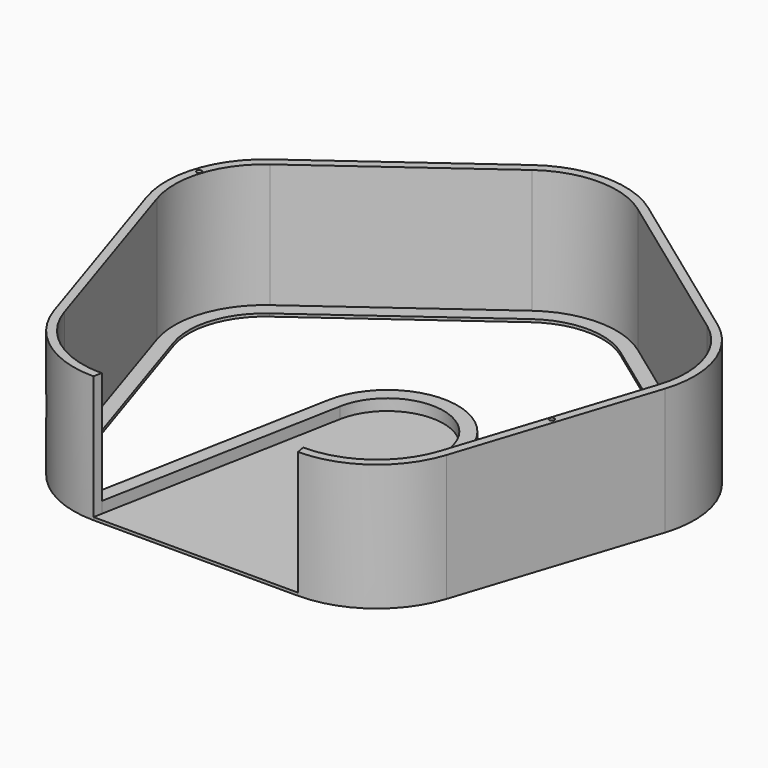
from build123d import *

# Parameters (mm, degrees)
F0_R     = 0.9
F1_DEPTH = 45
F2_DEPTH = 5
F3_DEPTH = 1
F4_R     = 5.995213452
F5_DEPTH = 25


with BuildPart() as f1:
    # F0 (on Top) → F1 (new body)
    with BuildSketch(Plane.XY):
        with BuildLine():
            Line((69.6141044706, -60.8155948031), (92.0655032996, 8.2827057594))
            ThreePointArc((92.0655032996, 8.2827057594), (92.0655032996, 29.9138953656), (79.3510090595, 47.4138953656))
            Line((79.3510090595, 47.4138953656), (20.5724838302, 90.1189936781))
            ThreePointArc((20.5724838302, 90.1189936781), (0, 96.803398875), (-20.5724838302, 90.1189936781))
            Line((-20.5724838302, 90.1189936781), (-79.3510090595, 47.4138953656))
            ThreePointArc((-79.3510090595, 47.4138953656), (-92.0655032996, 29.9138953656), (-92.0655032996, 8.2827057594))
            Line((-92.0655032996, 8.2827057594), (-69.6141044706, -60.8155948031))
            ThreePointArc((-69.6141044706, -60.8155948031), (-56.8996102305, -78.3155948031), (-36.3271264003, -85))
            Line((-36.3271264003, -85), (-35.7632361451, -82))
            Line((-35.7632361451, -82), (-36.3271264003, -82))
            ThreePointArc((-36.3271264003, -82), (-38.5650226814, -81.9216512768), (-40.7919604428, -81.6869887647))
            ThreePointArc((-40.7919604428, -81.6869887647), (-56.9006983727, -74.5097559412), (-66.7609349217, -59.88854382))
            Line((-66.7609349217, -59.88854382), (-89.2123337507, 9.2097567425))
            ThreePointArc((-89.2123337507, 9.2097567425), (-89.2123337507, 28.9868443825), (-77.5876533026, 44.9868443825))
            Line((-77.5876533026, 44.9868443825), (-18.8091280734, 87.691942695))
            ThreePointArc((-18.8091280734, 87.691942695), (0, 93.803398875), (18.8091280734, 87.691942695))
            Line((18.8091280734, 87.691942695), (77.5876533026, 44.9868443825))
            ThreePointArc((77.5876533026, 44.9868443825), (89.2123337507, 28.9868443825), (89.2123337507, 9.2097567425))
            Line((89.2123337507, 9.2097567425), (66.7609349217, -59.88854382))
            ThreePointArc((66.7609349217, -59.88854382), (56.9006983727, -74.5097559412), (40.7919604428, -81.6869887647))
            ThreePointArc((40.7919604428, -81.6869887647), (38.5650226814, -81.9216512768), (36.3271264003, -82))
            Line((36.3271264003, -82), (35.7632361451, -82))
            Line((35.7632361451, -82), (36.3271264003, -85))
            ThreePointArc((36.3271264003, -85), (56.8996102305, -78.3155948031), (69.6141044706, -60.8155948031))
        make_face()
        with Locations((79.0327965041, -25.6793122326)):
            Circle(F0_R, mode=Mode.SUBTRACT)
        with Locations((-90.2584959186, 29.3267630763)):
            Circle(F0_R, mode=Mode.SUBTRACT)
    extrude(amount=F1_DEPTH)

    # F0 (on Top) → F2 (join)
    with BuildSketch(Plane.XY):
        with BuildLine():
            Line((19.6557918633, 3.6945698296), (34.8234190532, -77))
            Line((34.8234190532, -77), (36.3271264003, -77))
            ThreePointArc((36.3271264003, -77), (38.1009794725, -76.9416674554), (39.8671678511, -76.7669218725))
            Line((39.8671678511, -76.7669218725), (24.5697398292, 4.618212287))
            ThreePointArc((24.5697398292, 4.618212287), (0, 25), (-24.5697398292, 4.618212287))
            Line((-24.5697398292, 4.618212287), (-39.8671678511, -76.7669218725))
            ThreePointArc((-39.8671678511, -76.7669218725), (-38.1009794725, -76.9416674554), (-36.3271264003, -77))
            Line((-36.3271264003, -77), (-34.8234190532, -77))
            Line((-34.8234190532, -77), (-19.6557918633, 3.6945698296))
            ThreePointArc((-19.6557918633, 3.6945698296), (0, 20), (19.6557918633, 3.6945698296))
        make_face()
        with BuildLine():
            Line((-36.3271264003, -82), (-35.7632361451, -82))
            Line((-35.7632361451, -82), (-34.8234190532, -77))
            Line((-34.8234190532, -77), (-36.3271264003, -77))
            ThreePointArc((-36.3271264003, -77), (-38.1009794725, -76.9416674554), (-39.8671678511, -76.7669218725))
            Line((-39.8671678511, -76.7669218725), (-40.7919604428, -81.6869887647))
            ThreePointArc((-40.7919604428, -81.6869887647), (-38.5650226814, -81.9216512768), (-36.3271264003, -82))
        make_face()
        with BuildLine():
            Line((34.8234190532, -77), (35.7632361451, -82))
            Line((35.7632361451, -82), (36.3271264003, -82))
            ThreePointArc((36.3271264003, -82), (38.5650226814, -81.9216512768), (40.7919604428, -81.6869887647))
            Line((40.7919604428, -81.6869887647), (39.8671678511, -76.7669218725))
            ThreePointArc((39.8671678511, -76.7669218725), (38.1009794725, -76.9416674554), (36.3271264003, -77))
            Line((36.3271264003, -77), (34.8234190532, -77))
        make_face()
    extrude(amount=F2_DEPTH)

    # F0 (on Top) → F3 (join)
    with BuildSketch(Plane.XY):
        Polygon((-35.7632361451, -82), (35.7632361451, -82), (34.8234190532, -77), (-34.8234190532, -77), align=None)
        Polygon((-36.3271264003, -85), (36.3271264003, -85), (35.7632361451, -82), (-35.7632361451, -82), align=None)
        with BuildLine():
            Line((-34.8234190532, -77), (34.8234190532, -77))
            Line((34.8234190532, -77), (19.6557918633, 3.6945698296))
            ThreePointArc((19.6557918633, 3.6945698296), (0, 20), (-19.6557918633, 3.6945698296))
            Line((-19.6557918633, 3.6945698296), (-34.8234190532, -77))
        make_face()
        with BuildLine():
            Line((39.8671678511, -76.7669218725), (40.7919604428, -81.6869887647))
            ThreePointArc((40.7919604428, -81.6869887647), (56.9006983727, -74.5097559412), (66.7609349217, -59.88854382))
            Line((66.7609349217, -59.88854382), (89.2123337507, 9.2097567425))
            ThreePointArc((89.2123337507, 9.2097567425), (89.2123337507, 28.9868443825), (77.5876533026, 44.9868443825))
            Line((77.5876533026, 44.9868443825), (18.8091280734, 87.691942695))
            ThreePointArc((18.8091280734, 87.691942695), (0, 93.803398875), (-18.8091280734, 87.691942695))
            Line((-18.8091280734, 87.691942695), (-77.5876533026, 44.9868443825))
            ThreePointArc((-77.5876533026, 44.9868443825), (-89.2123337507, 28.9868443825), (-89.2123337507, 9.2097567425))
            Line((-89.2123337507, 9.2097567425), (-66.7609349217, -59.88854382))
            ThreePointArc((-66.7609349217, -59.88854382), (-56.9006983727, -74.5097559412), (-40.7919604428, -81.6869887647))
            Line((-40.7919604428, -81.6869887647), (-39.8671678511, -76.7669218725))
            ThreePointArc((-39.8671678511, -76.7669218725), (-53.5981184837, -70.7536221526), (-62.0056523402, -58.3434588481))
            Line((-62.0056523402, -58.3434588481), (-84.4570511692, 10.7548417144))
            ThreePointArc((-84.4570511692, 10.7548417144), (-84.4570511692, 27.4417594106), (-74.6487270411, 40.9417594106))
            Line((-74.6487270411, 40.9417594106), (-15.8702018119, 83.6468577231))
            ThreePointArc((-15.8702018119, 83.6468577231), (0, 88.803398875), (15.8702018119, 83.6468577231))
            Line((15.8702018119, 83.6468577231), (74.6487270411, 40.9417594106))
            ThreePointArc((74.6487270411, 40.9417594106), (84.4570511692, 27.4417594106), (84.4570511692, 10.7548417144))
            Line((84.4570511692, 10.7548417144), (62.0056523402, -58.3434588481))
            ThreePointArc((62.0056523402, -58.3434588481), (53.5981184837, -70.7536221526), (39.8671678511, -76.7669218725))
        make_face()
    extrude(amount=F3_DEPTH)

    # F4 (on face) → F5 (cut)
    with BuildSketch(Plane(origin=(-80.8398038851, -26.2664445219, 0), x_dir=(0.3090169944, -0.9510565163, 0), z_dir=(-0.9510565163, -0.3090169944, 0))):
        with Locations((45.5608554184, 22.5)):
            Circle(F4_R)
    extrude(amount=-F5_DEPTH, mode=Mode.SUBTRACT)


solid = f1.part
